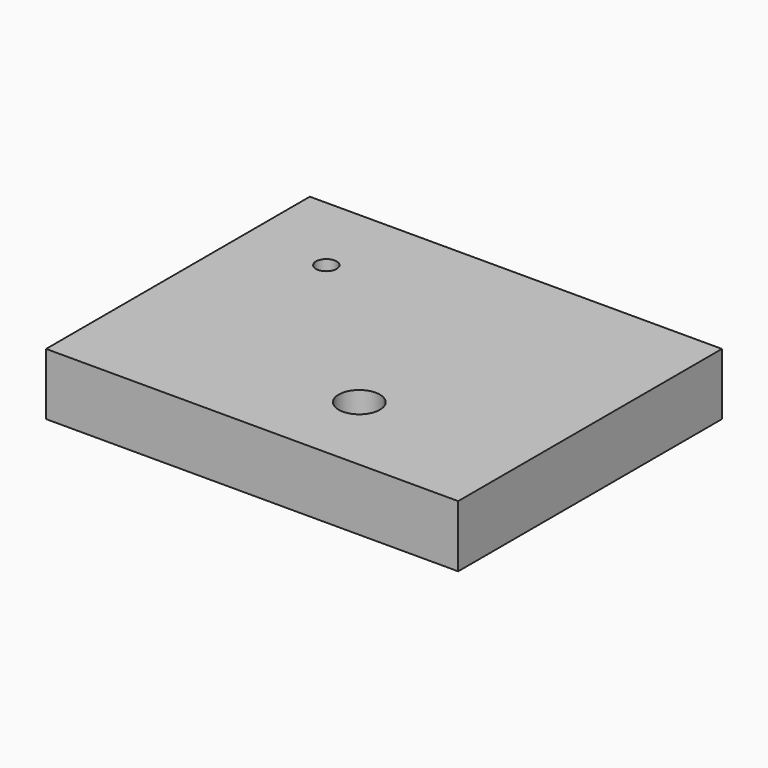
from build123d import *

# Parameters (mm, degrees)
F0_W     = 127
F0_H     = 101.6
F1_DEPTH = 19.05
F2_R     = 3.175
F3_DEPTH = 25.4
F4_R     = 6.35
F5_DEPTH = 25.4


with BuildPart() as f1:
    # F0 (on Top) → F1 (new body)
    with BuildSketch(Plane.XY):
        Rectangle(F0_W, F0_H)
    extrude(amount=F1_DEPTH)

    # F2 (on face) → F3 (cut)
    with BuildSketch(Plane.XY.offset(19.05)):
        with Locations((-38.1, 25.4)):
            Circle(F2_R)
    extrude(amount=-F3_DEPTH, mode=Mode.SUBTRACT)

    # F4 (on face) → F5 (cut)
    with BuildSketch(Plane.XY.offset(19.05)):
        with Locations((12.7, -25.4)):
            Circle(F4_R)
    extrude(amount=-F5_DEPTH, mode=Mode.SUBTRACT)


solid = f1.part
